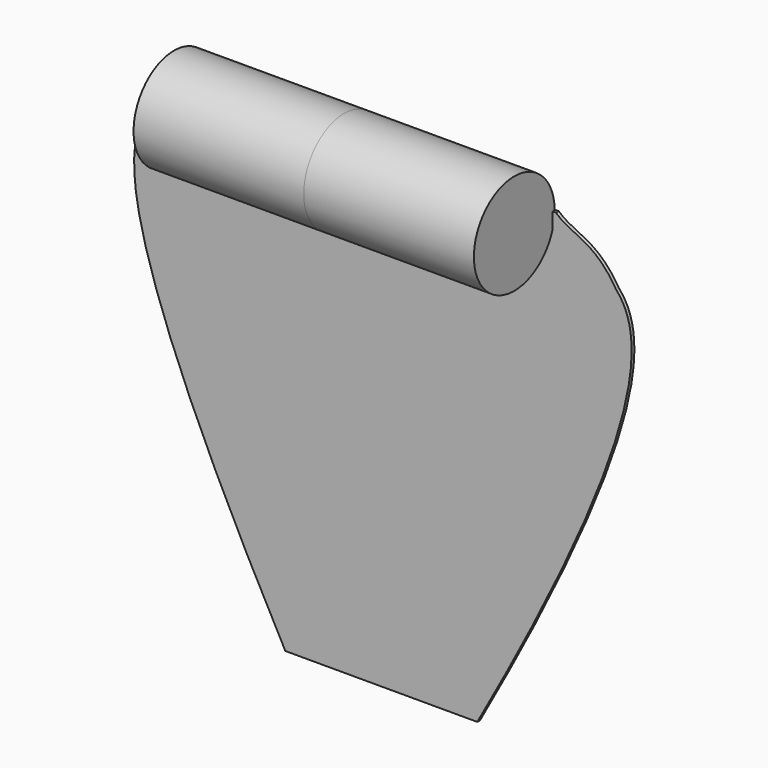
from build123d import *

# Parameters (mm, degrees)
F0_R      = 18.83724
F1_DEPTH  = 63.5
F1_FACE_R = 18.83724
F2_DEPTH  = 63.5
F4_DEPTH  = 1.27


with BuildPart() as f1:
    # F0 (on Right) → F1 (new body)
    with BuildSketch(Plane.YZ):
        with Locations((-19.173939, 0)):
            Circle(F0_R)
    extrude(amount=-F1_DEPTH)

    # F1_face (on face) → F2 (join)
    with BuildSketch(Plane(origin=(0, -19.173939, 0), x_dir=(0, 1, 0), z_dir=(1, 0, 0))):
        Circle(F1_FACE_R)
    extrude(amount=F2_DEPTH)


with BuildPart() as f4:
    # F3 (on Front) → F4 (new body)
    with BuildSketch(Plane.XZ):
        with BuildLine():
            Line((64.751944, 0), (-61.556005, 0))
            add(Edge.make_bspline(
                [(-61.556005, 0), (-61.032861, -11.019501), (-76.759099, -7.395711), (-86.056434, -15.957918)],
                knots=[0, 0, 0, 0, 76.80465, 76.80465, 76.80465, 76.80465], degree=3))
            add(Edge.make_bspline(
                [(-86.056434, -15.957918), (-98.384604, -27.311316), (-99.409165, -60.090726), (-36.257519, -176.846474)],
                knots=[76.80465, 76.80465, 76.80465, 76.80465, 178.646826, 178.646826, 178.646826, 178.646826], degree=3))
            Line((-36.257519, -176.846474), (35.385492, -176.846474))
            add(Edge.make_bspline(
                [(87.287053, -18.077033), (98.55626, -30.61174), (98.545469, -63.593864), (35.385492, -176.846474)],
                knots=[75.70393, 75.70393, 75.70393, 75.70393, 179.268134, 179.268134, 179.268134, 179.268134], degree=3))
            add(Edge.make_bspline(
                [(64.751944, 0), (64.784448, -10.677522), (79.049427, -8.914343), (87.287053, -18.077033)],
                knots=[0, 0, 0, 0, 75.70393, 75.70393, 75.70393, 75.70393], degree=3))
        make_face()
        with BuildLine():
            add(Edge.make_bspline(
                [(-61.556005, 0), (-61.032861, -11.019501), (-76.759099, -7.395711), (-86.056434, -15.957918)],
                knots=[0, 0, 0, 0, 76.80465, 76.80465, 76.80465, 76.80465], degree=3))
            add(Edge.make_bspline(
                [(-86.056434, -15.957918), (-69.472371, 0), (-69.788494, -6.848962), (-61.556005, 0)],
                knots=[0, 0, 0, 0, 29.23912, 29.23912, 29.23912, 29.23912], degree=3))
        make_face()
        with BuildLine():
            add(Edge.make_bspline(
                [(87.287053, -18.077033), (79.203186, -4.681891), (70.994788, -5.671044), (64.751944, 0)],
                knots=[0, 0, 0, 0, 28.889622, 28.889622, 28.889622, 28.889622], degree=3))
            add(Edge.make_bspline(
                [(64.751944, 0), (64.784448, -10.677522), (79.049427, -8.914343), (87.287053, -18.077033)],
                knots=[0, 0, 0, 0, 75.70393, 75.70393, 75.70393, 75.70393], degree=3))
        make_face()
    extrude(amount=F4_DEPTH)


solid = Compound([f1.part, f4.part])
